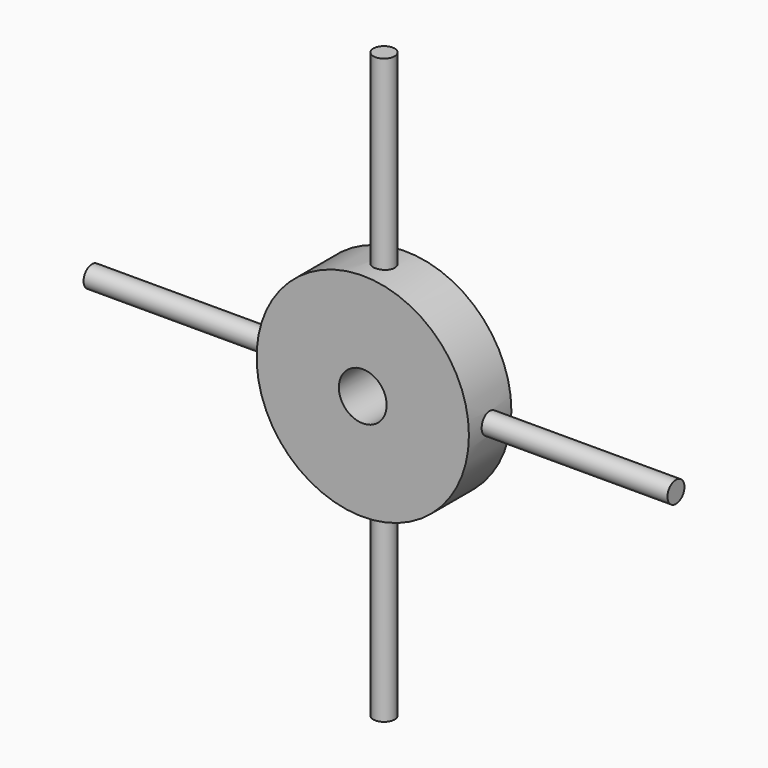
from build123d import *

# Parameters (mm, degrees)
F0_R          = 50.8
F1_DEPTH      = 25.4
F2_R          = 5.08
F3_DEPTH      = 139.7
F3_DEPTH_BACK = 139.7
F4_R          = 5.08
F5_DEPTH      = 139.7
F5_DEPTH_BACK = 139.7
F6_R          = 11.43
F7_DEPTH      = 27.94


with BuildPart() as f1:
    # F0 (on Front) → F1 (new body)
    with BuildSketch(Plane.XZ):
        Circle(F0_R)
    extrude(amount=F1_DEPTH)

    # F2 (on Right) → F3 (join, two sides)
    with BuildSketch(Plane.YZ) as f3_sk:
        with Locations((-12.7, 0)):
            Circle(F2_R)
    extrude(amount=F3_DEPTH)
    extrude(f3_sk.sketch, amount=-F3_DEPTH_BACK)

    # F4 (on Top) → F5 (join, two sides)
    with BuildSketch(Plane.XY) as f5_sk:
        with Locations((0, -12.7)):
            Circle(F4_R)
    extrude(amount=F5_DEPTH)
    extrude(f5_sk.sketch, amount=-F5_DEPTH_BACK)

    # F6 (on Front) → F7 (cut)
    with BuildSketch(Plane.XZ):
        Circle(F6_R)
    extrude(amount=F7_DEPTH, mode=Mode.SUBTRACT)


solid = f1.part
